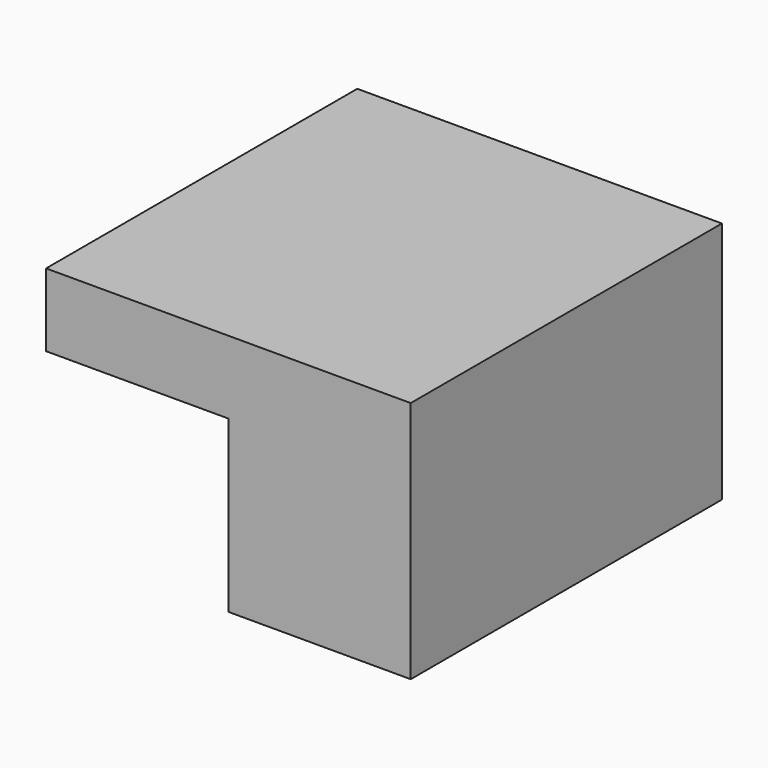
from build123d import *

# Parameters (mm, degrees)
F1_DEPTH = 16
F0_W     = 7.5
F0_H     = 7
F0_R     = 2.513673
F2_DEPTH = 4


with BuildPart() as f1:
    # F0 (on Front) → F1 (new body)
    with BuildSketch(Plane.XZ):
        Polygon((-36.656332, 38.977126), (-51.656332, 38.977126), (-51.656332, 35.977126), (-44.156332, 35.977126), (-44.156332, 28.977126), (-36.656332, 28.977126), align=None)
    extrude(amount=F1_DEPTH)

    # F0 (on Front) → F2 (join)
    with BuildSketch(Plane.XZ):
        with Locations((-47.906332, 32.477126)):
            Rectangle(F0_W, F0_H)
        with Locations((-48.534414, 31.967482)):
            Circle(F0_R, mode=Mode.SUBTRACT)
    extrude(amount=F2_DEPTH)


solid = f1.part
